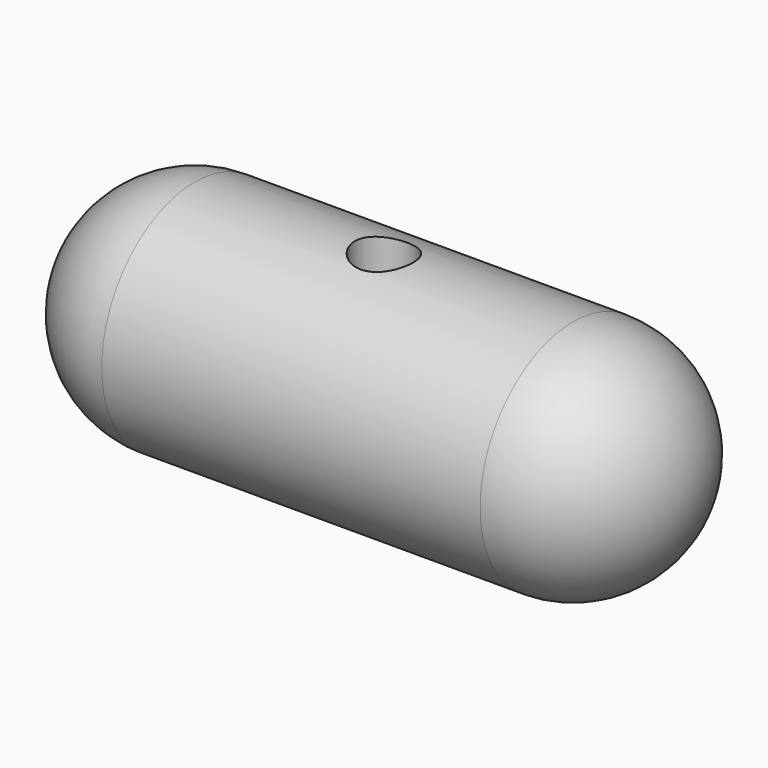
from build123d import *

# Parameters (mm, degrees)
F0_R     = 9.525
F1_DEPTH = 25.019
F2_R     = 9.525
F4_R     = 2.38125
F5_DEPTH = 9.525


with BuildPart() as f1:
    # F0 (on Right) → F1 (new body, symmetric)
    with BuildSketch(Plane.YZ):
        Circle(F0_R)
    extrude(amount=F1_DEPTH, both=True)

    # F2
    f2_edges = [f1.edges().sort_by_distance(p)[0] for p in [
        (-25.019, -9.525, 0),
        (25.019, -9.525, 0),
    ]]
    fillet(f2_edges, radius=F2_R)

    # F4 (on plane+point) → F5 (cut)
    with BuildSketch(Plane.XY.offset(9.525)):
        Circle(F4_R)
    extrude(amount=-F5_DEPTH, mode=Mode.SUBTRACT)


solid = f1.part
